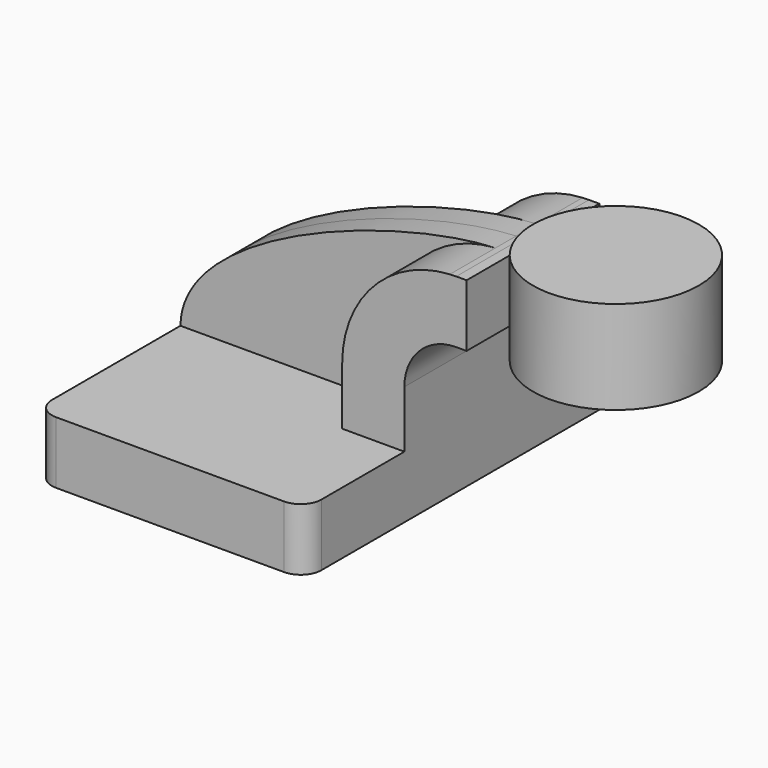
from build123d import *

# Parameters (mm, degrees)
F1_DEPTH = 63.5
F2_DEPTH = 25.4
F3_DEPTH = 7.9375
F5_R     = 6.35


with BuildPart() as f1:
    # F0 (on Front) → F1 (new body, symmetric)
    with BuildSketch(Plane.XZ):
        Polygon((22.225, 9.525), (-41.275, 9.525), (-41.275, -9.525), (41.275, -9.525), (41.275, 9.525), align=None)
    extrude(amount=F1_DEPTH, both=True)

    # F0 (on Front) → F2 (join, symmetric)
    with BuildSketch(Plane.XZ):
        with BuildLine():
            Line((22.225, 27.0002), (22.225, 9.525))
            Line((22.225, 9.525), (41.275, 9.525))
            Line((41.275, 9.525), (41.275, 27.0002))
            ThreePointArc((41.275, 27.0002), (45.92468, 38.22552), (57.15, 42.8752))
            Line((57.15, 42.8752), (60.325, 42.8752))
            Line((60.325, 42.8752), (60.325, 61.9252))
            Line((60.325, 61.9252), (57.15, 61.9252))
            add(Edge.make_bspline(
                [(55.200179, 61.870729), (55.866888, 61.898963), (56.51717, 61.917172), (57.15, 61.9252)],
                knots=[109.131742, 109.131742, 109.131742, 109.131742, 111.504536, 111.504536, 111.504536, 111.504536], degree=3))
            ThreePointArc((55.200179, 61.870729), (31.774292, 50.996639), (22.225, 27.0002))
        make_face()
    extrude(amount=F2_DEPTH, both=True)

    # F0 (on Front) → F3 (join, symmetric)
    with BuildSketch(Plane.XZ):
        with BuildLine():
            add(Edge.make_bspline(
                [(-41.275, 9.525), (-40.876394, 38.067363), (24.536282, 60.572176), (55.200179, 61.870729)],
                knots=[0, 0, 0, 0, 109.131742, 109.131742, 109.131742, 109.131742], degree=3))
            Line((-41.275, 9.525), (22.225, 9.525))
            Line((22.225, 9.525), (22.225, 27.0002))
            ThreePointArc((22.225, 27.0002), (31.774292, 50.996639), (55.200179, 61.870729))
        make_face()
    extrude(amount=F3_DEPTH, both=True)

    # F0 (on Front) → F4 (revolve)
    with BuildSketch(Plane.XZ):
        Polygon((85.725, 66.675), (85.725, 61.9252), (85.725, 42.8752), (85.725, 38.1), (111.125, 38.1), (111.125, 66.675), align=None)
    revolve(axis=Axis((85.725, 0, 52.3875), (0, 0, 1)))

    # F5
    f5_edges = [f1.edges().sort_by_distance(p)[0] for p in [
        (-41.275, -63.5, 0),
        (41.275, -63.5, 0),
        (41.275, 63.5, 0),
        (-41.275, 63.5, 0),
    ]]
    fillet(f5_edges, radius=F5_R)


solid = f1.part
